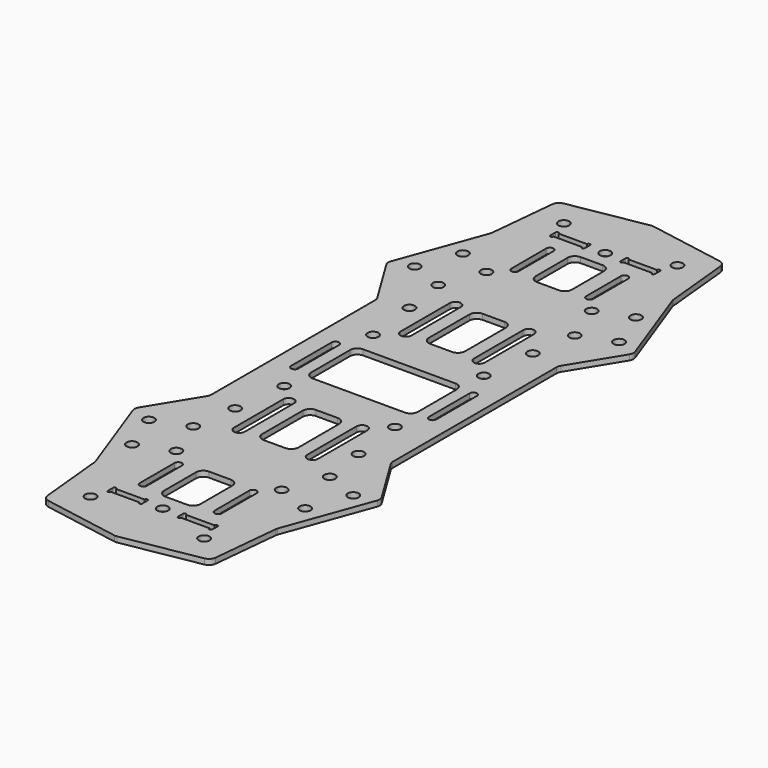
from build123d import *

# Parameters (mm, degrees)
F1_DEPTH = 1.5
F2_R     = 1.5
F2_W     = 10
F2_H     = 15
F2_H_2   = 18
F2_W_2   = 29.4
F2_H_3   = 17.4
F2_W_3   = 7.8
F2_H_4   = 1.75
F3_DEPTH = 1.5
F4_R     = 2
F5_R     = 2


with BuildPart() as f1:
    # F0 (on Top) → F1 (new body)
    with BuildSketch(Plane.XY):
        Polygon((-25, 121.3), (-25, 92.5), (-25, 63.7), (-34, 49), (-25, 24.3), (-23, 4.055521), (0, 0), (23, 4.055521), (25, 24.3), (34, 49), (25, 63.7), (25, 92.5), (25, 121.3), (34, 136), (25, 160.7), (23, 180.944479), (0, 185), (-23, 180.944479), (-25, 160.7), (-34, 136), align=None)
    extrude(amount=F1_DEPTH)

    # F2 (on face) → F3 (cut, through all)
    with BuildSketch(Plane.XY.offset(1.5)):
        with Locations((-15.65, 11.000003)):
            Circle(F2_R)
        with Locations((0, 16.3)):
            Circle(F2_R)
        with Locations((15.65, 11.000003)):
            Circle(F2_R)
        with Locations((-23.85, 35.53)):
            Circle(F2_R)
        with Locations((-28.15, 46.733125)):
            Circle(F2_R)
        with Locations((-14.514063, 39.113333)):
            Circle(F2_R)
        with Locations((-18.814063, 50.316458)):
            Circle(F2_R)
        with Locations((-17.000001, 62.5)):
            Circle(F2_R)
        with BuildLine():
            ThreePointArc((-9.3, 34.5), (-10.3, 35.5), (-11.3, 34.5))
            Line((-11.3, 34.5), (-11.3, 22.5))
            ThreePointArc((-11.3, 22.5), (-10.3, 21.5), (-9.3, 22.5))
            Line((-9.3, 22.5), (-9.3, 34.5))
        make_face()
        with BuildLine():
            ThreePointArc((-18, 99.5), (-19, 100.5), (-20, 99.5))
            Line((-20, 99.5), (-20, 85.5))
            ThreePointArc((-20, 85.5), (-19, 84.5), (-18, 85.5))
            Line((-18, 85.5), (-18, 99.5))
        make_face()
        with Locations((0, 28.5)):
            Rectangle(F2_W, F2_H)
        with BuildLine():
            ThreePointArc((-8.6, 72.3), (-10.1, 73.8), (-11.6, 72.3))
            Line((-11.6, 72.3), (-11.6, 55.3))
            ThreePointArc((-11.6, 55.3), (-10.1, 53.8), (-8.6, 55.3))
            Line((-8.6, 55.3), (-8.6, 72.3))
        make_face()
        with Locations((0, 63.8)):
            Rectangle(F2_W, F2_H_2)
        with Locations((0, 92.5)):
            Rectangle(F2_W_2, F2_H_3)
        with Locations((-15.25, 77.2)):
            Circle(F2_R)
        with BuildLine():
            ThreePointArc((-13.55, 17.175), (-13.975, 17.6), (-14.4, 17.175))
            Line((-14.4, 17.175), (-14.4, 15.425))
            ThreePointArc((-14.4, 15.425), (-13.975, 15), (-13.55, 15.425))
            Line((-13.55, 15.425), (-13.55, 17.175))
        make_face()
        with Locations((-9.65, 16.3)):
            Rectangle(F2_W_3, F2_H_4)
        with BuildLine():
            ThreePointArc((-4.9, 17.175), (-5.325, 17.6), (-5.75, 17.175))
            Line((-5.75, 17.175), (-5.75, 15.425))
            ThreePointArc((-5.75, 15.425), (-5.325, 15), (-4.9, 15.425))
            Line((-4.9, 15.425), (-4.9, 17.175))
        make_face()
        with BuildLine():
            Line((13.55, 17.175), (13.55, 15.425))
            ThreePointArc((13.55, 15.425), (13.975, 15), (14.4, 15.425))
            Line((14.4, 15.425), (14.4, 17.175))
            ThreePointArc((14.4, 17.175), (13.975, 17.6), (13.55, 17.175))
        make_face()
        with Locations((9.65, 16.3)):
            Rectangle(F2_W_3, F2_H_4)
        with BuildLine():
            ThreePointArc((4.9, 15.425), (5.325, 15), (5.75, 15.425))
            Line((5.75, 15.425), (5.75, 17.175))
            ThreePointArc((5.75, 17.175), (5.325, 17.6), (4.9, 17.175))
            Line((4.9, 17.175), (4.9, 15.425))
        make_face()
        with BuildLine():
            Line((9.3, 34.5), (9.3, 22.5))
            ThreePointArc((9.3, 22.5), (10.3, 21.5), (11.3, 22.5))
            Line((11.3, 22.5), (11.3, 34.5))
            ThreePointArc((11.3, 34.5), (10.3, 35.5), (9.3, 34.5))
        make_face()
        with Locations((18.814063, 50.316458)):
            Circle(F2_R)
        with Locations((28.15, 46.733125)):
            Circle(F2_R)
        with Locations((14.514063, 39.113333)):
            Circle(F2_R)
        with Locations((23.85, 35.53)):
            Circle(F2_R)
        with BuildLine():
            Line((11.6, 55.3), (11.6, 72.3))
            ThreePointArc((11.6, 72.3), (10.1, 73.8), (8.6, 72.3))
            Line((8.6, 72.3), (8.6, 55.3))
            ThreePointArc((8.6, 55.3), (10.1, 53.8), (11.6, 55.3))
        make_face()
        with Locations((17.000001, 62.5)):
            Circle(F2_R)
        with BuildLine():
            Line((20, 85.5), (20, 99.5))
            ThreePointArc((20, 99.5), (19, 100.5), (18, 99.5))
            Line((18, 99.5), (18, 85.5))
            ThreePointArc((18, 85.5), (19, 84.5), (20, 85.5))
        make_face()
        with Locations((15.25, 77.2)):
            Circle(F2_R)
        with BuildLine():
            Line((-11.3, 162.5), (-11.3, 150.5))
            ThreePointArc((-11.3, 150.5), (-10.3, 149.5), (-9.3, 150.5))
            Line((-9.3, 150.5), (-9.3, 162.5))
            ThreePointArc((-9.3, 162.5), (-10.3, 163.5), (-11.3, 162.5))
        make_face()
        with BuildLine():
            ThreePointArc((11.6, 129.7), (10.1, 131.2), (8.6, 129.7))
            Line((8.6, 129.7), (8.6, 112.7))
            ThreePointArc((8.6, 112.7), (10.1, 111.2), (11.6, 112.7))
            Line((11.6, 112.7), (11.6, 129.7))
        make_face()
        with BuildLine():
            Line((-8.6, 112.7), (-8.6, 129.7))
            ThreePointArc((-8.6, 129.7), (-10.1, 131.2), (-11.6, 129.7))
            Line((-11.6, 129.7), (-11.6, 112.7))
            ThreePointArc((-11.6, 112.7), (-10.1, 111.2), (-8.6, 112.7))
        make_face()
        with Locations((-14.514063, 145.886667)):
            Circle(F2_R)
        with Locations((-18.814063, 134.683542)):
            Circle(F2_R)
        with BuildLine():
            ThreePointArc((9.3, 150.5), (10.3, 149.5), (11.3, 150.5))
            Line((11.3, 150.5), (11.3, 162.5))
            ThreePointArc((11.3, 162.5), (10.3, 163.5), (9.3, 162.5))
            Line((9.3, 162.5), (9.3, 150.5))
        make_face()
        with Locations((18.814063, 134.683542)):
            Circle(F2_R)
        with Locations((15.25, 107.8)):
            Circle(F2_R)
        with Locations((-15.25, 107.8)):
            Circle(F2_R)
        with Locations((17.000001, 122.5)):
            Circle(F2_R)
        with Locations((-17.000001, 122.5)):
            Circle(F2_R)
        with Locations((14.514063, 145.886667)):
            Circle(F2_R)
        with Locations((0, 121.2)):
            Rectangle(F2_W, F2_H_2)
        with Locations((0, 156.5)):
            Rectangle(F2_W, F2_H)
        with Locations((-23.85, 149.47)):
            Circle(F2_R)
        with Locations((-28.15, 138.266875)):
            Circle(F2_R)
        with Locations((28.15, 138.266875)):
            Circle(F2_R)
        with Locations((23.85, 149.47)):
            Circle(F2_R)
        with Locations((-9.65, 168.7)):
            Rectangle(F2_W_3, F2_H_4)
        with BuildLine():
            Line((-5.75, 169.575), (-5.75, 167.825))
            ThreePointArc((-5.75, 167.825), (-5.325, 167.4), (-4.9, 167.825))
            Line((-4.9, 167.825), (-4.9, 169.575))
            ThreePointArc((-4.9, 169.575), (-5.325, 170), (-5.75, 169.575))
        make_face()
        with BuildLine():
            ThreePointArc((-14.4, 167.825), (-13.975, 167.4), (-13.55, 167.825))
            Line((-13.55, 167.825), (-13.55, 169.575))
            ThreePointArc((-13.55, 169.575), (-13.975, 170), (-14.4, 169.575))
            Line((-14.4, 169.575), (-14.4, 167.825))
        make_face()
        with BuildLine():
            ThreePointArc((13.55, 167.825), (13.975, 167.4), (14.4, 167.825))
            Line((14.4, 167.825), (14.4, 169.575))
            ThreePointArc((14.4, 169.575), (13.975, 170), (13.55, 169.575))
            Line((13.55, 169.575), (13.55, 167.825))
        make_face()
        with Locations((9.65, 168.7)):
            Rectangle(F2_W_3, F2_H_4)
        with BuildLine():
            ThreePointArc((4.9, 167.825), (5.325, 167.4), (5.75, 167.825))
            Line((5.75, 167.825), (5.75, 169.575))
            ThreePointArc((5.75, 169.575), (5.325, 170), (4.9, 169.575))
            Line((4.9, 169.575), (4.9, 167.825))
        make_face()
        with Locations((-15.65, 173.999997)):
            Circle(F2_R)
        with Locations((15.65, 173.999997)):
            Circle(F2_R)
        with Locations((0, 168.7)):
            Circle(F2_R)
    extrude(amount=-F3_DEPTH, mode=Mode.SUBTRACT)

    # F4
    f4_edges = [f1.edges().sort_by_distance(p)[0] for p in [
        (23, 4.055521, 0.75),
        (25, 24.3, 0.75),
        (34, 49, 0.75),
        (25, 63.7, 0.75),
        (25, 121.3, 0.75),
        (34, 136, 0.75),
        (25, 160.7, 0.75),
        (23, 180.944479, 0.75),
        (0, 185, 0.75),
        (-23, 180.944479, 0.75),
        (-25, 160.7, 0.75),
        (-34, 136, 0.75),
        (-25, 121.3, 0.75),
        (-25, 63.7, 0.75),
        (-34, 49, 0.75),
        (-25, 24.3, 0.75),
        (-23, 4.055521, 0.75),
        (0, 0, 0.75),
    ]]
    fillet(f4_edges, radius=F4_R)

    # F5
    f5_edges = [f1.edges().sort_by_distance(p)[0] for p in [
        (5, 21, 0.75),
        (5, 54.8, 0.75),
        (-5, 36, 0.75),
        (-5, 72.8, 0.75),
        (5, 72.8, 0.75),
        (-5, 54.8, 0.75),
        (-5, 21, 0.75),
        (5, 36, 0.75),
        (-14.7, 83.8, 0.75),
        (-14.7, 101.2, 0.75),
        (14.7, 101.2, 0.75),
        (14.7, 83.8, 0.75),
        (5, 112.2, 0.75),
        (-5, 112.2, 0.75),
        (5, 130.2, 0.75),
        (-5, 130.2, 0.75),
        (5, 149, 0.75),
        (-5, 149, 0.75),
        (-5, 164, 0.75),
        (5, 164, 0.75),
    ]]
    fillet(f5_edges, radius=F5_R)


solid = f1.part
